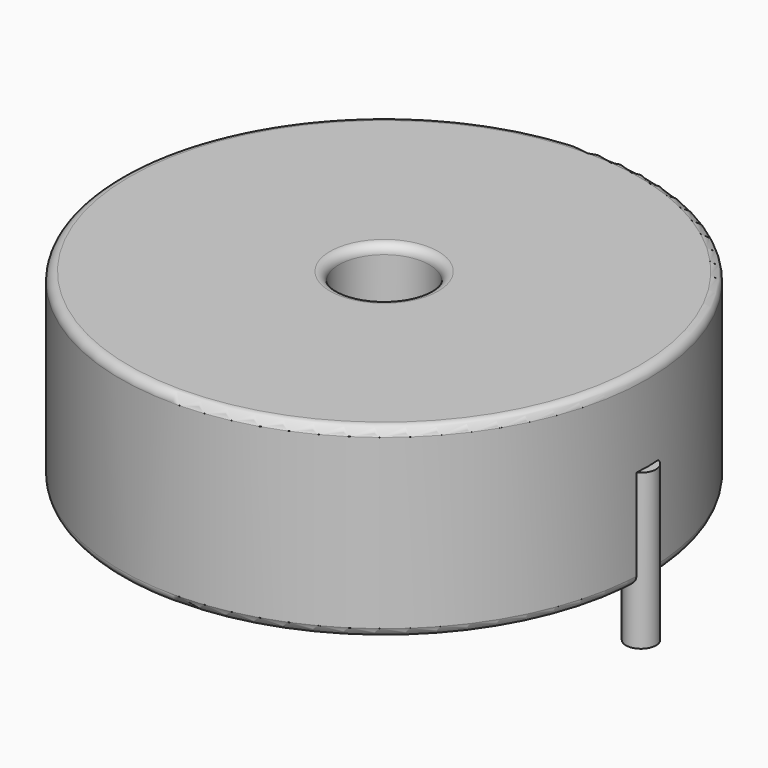
from build123d import *

# Parameters (mm, degrees)
SKETCH001_R       = 0.85
PAD001_DEPTH      = 5.25
PAD001_DEPTH_BACK = 3.5
SKETCH_R          = 14.9
SKETCH_R_2        = 2.55
PAD_DEPTH         = 10.5
FILLET_R          = 0.5


with BuildPart() as pad001:
    # Sketch001 → Pad001 (new body, two sides)
    with BuildSketch(Plane.XY.offset(0.5)) as pad001_sk:
        Circle(SKETCH001_R)
        with Locations((29, 0)):
            Circle(SKETCH001_R)
    extrude(amount=PAD001_DEPTH)
    extrude(pad001_sk.sketch, amount=-PAD001_DEPTH_BACK)


with BuildPart() as fillet_body:
    # Sketch → Pad (new body)
    with BuildSketch(Plane.XY.offset(0.1)):
        with Locations((14.5, 0)):
            Circle(SKETCH_R)
        with Locations((14.5, 0)):
            Circle(SKETCH_R_2, mode=Mode.SUBTRACT)
    extrude(amount=PAD_DEPTH)

    # Fillet
    fillet_edges = [fillet_body.edges().sort_by_distance(p)[0] for p in [
        (11.95, 0, 10.6),
        (-0.4, 0, 10.6),
        (-0.4, 0, 0.1),
    ]]
    fillet(fillet_edges, radius=FILLET_R)


solid = Compound([pad001.part, fillet_body.part])
